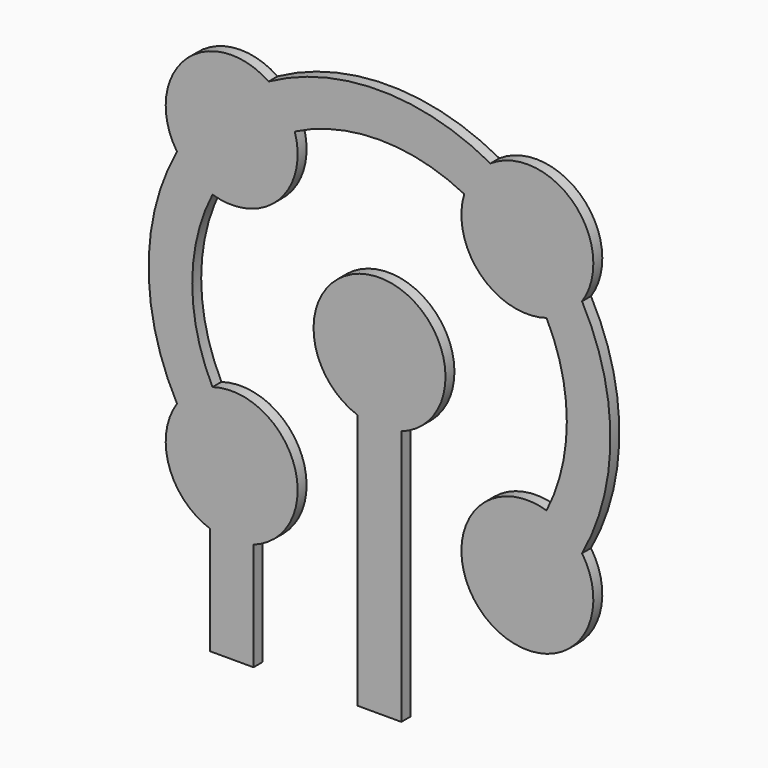
from build123d import *

# Parameters (mm, degrees)
F1_DEPTH = 0.254


with BuildPart() as f1:
    # F0 (on Front) → F1 (new body)
    with BuildSketch(Plane.XZ):
        with BuildLine():
            ThreePointArc((-3.794232, -1.924726), (-4.2545, 0), (-3.794232, 1.924726))
            ThreePointArc((-3.794232, 1.924726), (-2.298946, 2.298946), (-1.924726, 3.794232))
            ThreePointArc((-1.924726, 3.794232), (0, 4.2545), (1.924726, 3.794232))
            ThreePointArc((1.924726, 3.794232), (2.298946, 2.298946), (3.794232, 1.924726))
            ThreePointArc((3.794232, 1.924726), (4.2545, 0), (3.794232, -1.924726))
            ThreePointArc((3.794232, -1.924726), (2.468783, -4.564435), (4.600309, -2.519569))
            ThreePointArc((4.600309, -2.519569), (5.2451, 0), (4.600309, 2.519569))
            ThreePointArc((4.600309, 2.519569), (4.418286, 4.418286), (2.519569, 4.600309))
            ThreePointArc((2.519569, 4.600309), (0, 5.2451), (-2.519569, 4.600309))
            ThreePointArc((-2.519569, 4.600309), (-4.418286, 4.418286), (-4.600309, 2.519569))
            ThreePointArc((-4.600309, 2.519569), (-5.2451, 0), (-4.600309, -2.519569))
            ThreePointArc((-4.600309, -2.519569), (-4.78121, -3.829815), (-3.853916, -4.772999))
            Line((-3.853916, -4.772999), (-3.853916, -7.2263))
            Line((-3.853916, -7.2263), (-2.863316, -7.2263))
            Line((-2.863316, -7.2263), (-2.863316, -4.772999))
            ThreePointArc((-2.863316, -4.772999), (-1.934167, -2.893055), (-3.794232, -1.924726))
        make_face()
        with BuildLine():
            Line((0.4953, -7.2263), (0.4953, -1.414383))
            ThreePointArc((0.4953, -1.414383), (0, 1.4986), (-0.4953, -1.414383))
            Line((-0.4953, -1.414383), (-0.4953, -7.2263))
            Line((-0.4953, -7.2263), (0.4953, -7.2263))
        make_face()
    extrude(amount=F1_DEPTH)


solid = f1.part
